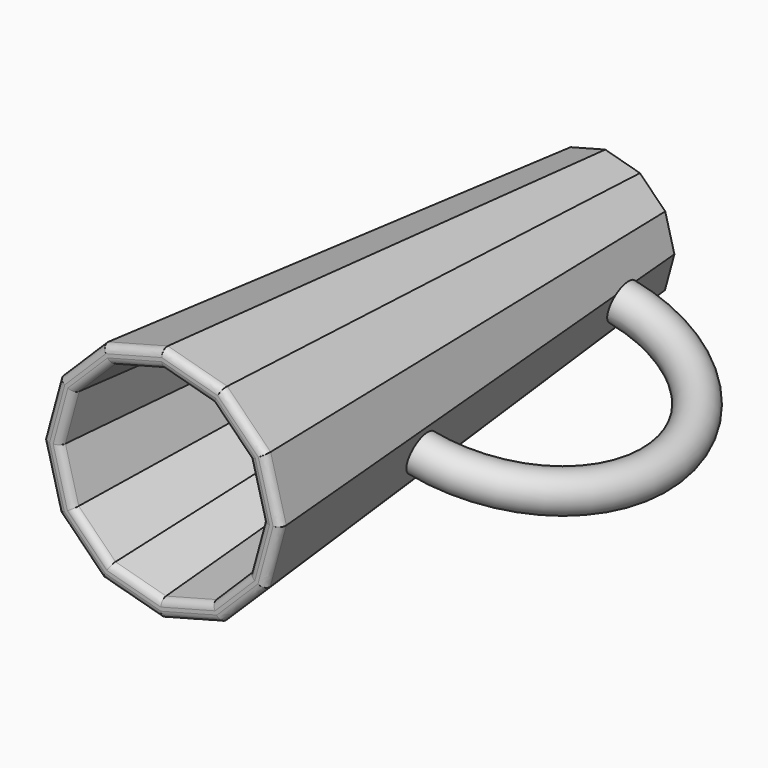
from build123d import *

# Parameters (mm, degrees)
F1_DEPTH = 203.2
F1_TAPER = -5
F2_T     = -6.35
F3_R     = 7.1107333835
F4_ANGLE = 180
F5_R     = 2.54


with BuildPart() as f1:
    # F0 (on Front) → F1 (new body)
    with BuildSketch(Plane.XZ):
        Polygon((-0.1015884154, -25.4219613001), (12.6230025016, -22.0668585076), (21.9652700922, -12.7989587985), (25.4219613001, -0.1015884154), (22.0668585076, 12.6230025016), (12.7989587985, 21.9652700922), (0.1015884154, 25.4219613001), (-12.6230025016, 22.0668585076), (-21.9652700922, 12.7989587985), (-25.4219613001, 0.1015884154), (-22.0668585076, -12.6230025016), (-12.7989587985, -21.9652700922), align=None)
    extrude(amount=F1_DEPTH, taper=F1_TAPER)

    # F2
    f2_openings = [f1.faces().sort_by_distance(p)[0] for p in [
        (0, -203.2, 0),
    ]]
    offset(amount=F2_T, openings=f2_openings)

    # F3 (on face) → F4 (revolve)
    with BuildSketch(Plane(origin=(23.5136360653, 2.1320458167, -6.4012765321), x_dir=(-0.0840951693, 0.9961946981, 0.022893798), z_dir=(0.9612121841, 0.0871557427, -0.2616773084))):
        with Locations((-129.9389451742, 0)):
            Circle(F3_R)
    revolve(axis=Axis((29.9077274277, -76.2759220201, -9.0290403029), (0.2645686388, -0.0232581031, 0.964086353)), revolution_arc=F4_ANGLE)

    # F5
    f5_edges = [f1.edges().sort_by_distance(p)[0] for p in [
        (-11.120063, -203.2, -40.847028),
        (-30.053771, -203.2, -29.814532),
        (-40.934596, -203.2, -10.793257),
        (-40.847028, -203.2, 11.120063),
        (-29.814532, -203.2, 30.053771),
        (-10.793257, -203.2, 40.934596),
        (11.120063, -203.2, 40.847028),
        (30.053771, -203.2, 29.814532),
        (40.934596, -203.2, 10.793257),
        (40.847028, -203.2, -11.120063),
        (29.814532, -203.2, -30.053771),
        (10.793257, -203.2, -40.934596),
        (-34.770994, -203.2, -9.168095),
        (-25.528516, -203.2, -25.3253),
        (-9.445694, -203.2, -34.696611),
        (9.168095, -203.2, -34.770994),
        (25.3253, -203.2, -25.528516),
        (34.696611, -203.2, -9.445694),
        (34.770994, -203.2, 9.168095),
        (25.528516, -203.2, 25.3253),
        (9.445694, -203.2, 34.696611),
        (-9.168095, -203.2, 34.770994),
        (-25.3253, -203.2, 25.528516),
        (-34.696611, -203.2, 9.445694),
    ]]
    fillet(f5_edges, radius=F5_R)


solid = f1.part
